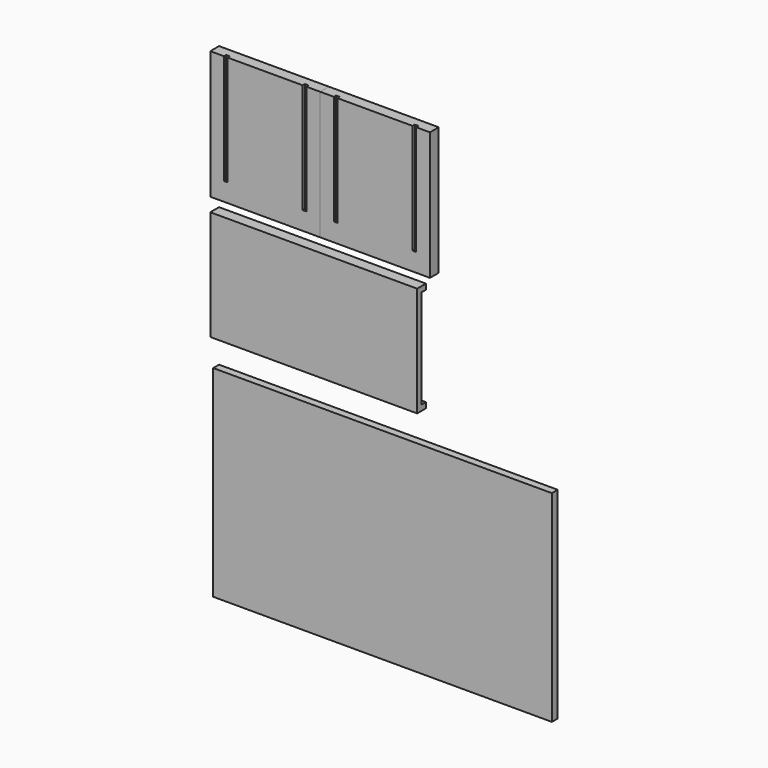
from build123d import *

# Parameters (mm, degrees)
F0_W      = 120
F0_H      = 140
F1_DEPTH  = 12
F3_W      = 4
F3_H      = 120
F4_DEPTH  = 3
F5_W      = 4
F5_H      = 120
F6_DEPTH  = 3
F8_W      = 226
F8_H      = 6
F8_H_2    = 108
F9_DEPTH  = 12
F10_W     = 370
F10_H     = 220
F11_DEPTH = 8
F13_DEPTH = 6


with BuildPart() as f1:
    # F0 (on Front) → F1 (new body)
    with BuildSketch(Plane.XZ):
        with Locations((60, 70)):
            Rectangle(F0_W, F0_H)
    extrude(amount=F1_DEPTH)

    # F3 (on offset) → F4 (cut)
    with BuildSketch(Plane.XZ.offset(12)):
        with Locations((17, 80)):
            Rectangle(F3_W, F3_H)
    extrude(amount=-F4_DEPTH, mode=Mode.SUBTRACT)

    # F5 (on offset) → F6 (cut)
    with BuildSketch(Plane.XZ.offset(12)):
        with Locations((103, 80)):
            Rectangle(F5_W, F5_H)
    extrude(amount=-F6_DEPTH, mode=Mode.SUBTRACT)


with BuildPart() as f7_1:
    # F7: copy of F1
    add(f1.part.moved(Location((120, 0, 0))))


with BuildPart() as f9:
    # F8 (on Front) → F9 (new body)
    with BuildSketch(Plane.XZ):
        with Locations((113, -17.897251607)):
            Rectangle(F8_W, F8_H)
        with Locations((113, -74.897251607)):
            Rectangle(F8_W, F8_H_2)
        with Locations((113, -131.897251607)):
            Rectangle(F8_W, F8_H)
    extrude(amount=F9_DEPTH)

    # F8 (on Front) → F13 (cut)
    with BuildSketch(Plane.XZ):
        with Locations((113, -74.897251607)):
            Rectangle(F8_W, F8_H_2)
    extrude(amount=F13_DEPTH, mode=Mode.SUBTRACT)


with BuildPart() as f11:
    # F10 (on Front) → F11 (new body)
    with BuildSketch(Plane.XZ):
        with Locations((185, -473.3677374021)):
            Rectangle(F10_W, F10_H)
    extrude(amount=F11_DEPTH)


with BuildPart() as f11_1:
    # F12: moved
    add(f11.part.moved(Location((0, 0, 287))))


with BuildPart() as f11_2:
    # F14: moved
    add(f11_1.part.moved(Location((0, 0, -90))))


solid = Compound([f1.part, f7_1.part, f9.part, f11_2.part])
